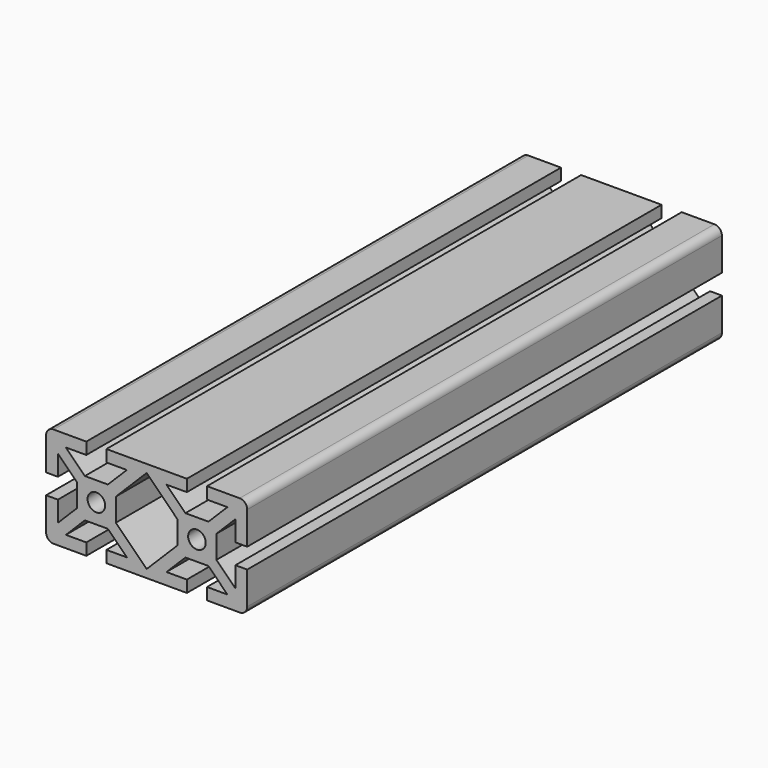
from build123d import *

# Parameters (mm, degrees)
F0_R     = 3.5
F1_DEPTH = 236


with BuildPart() as f1:
    # F0 (on Front) → F1 (new body)
    with BuildSketch(Plane.XZ):
        with BuildLine():
            Line((-129.601, 70.2), (-129.601, 78.321989))
            Line((-129.601, 78.321989), (-122.0572, 70.778189))
            Line((-122.0572, 70.778189), (-122.0572, 61.621811))
            Line((-122.0572, 61.621811), (-129.601, 54.078011))
            Line((-129.601, 54.078011), (-129.601, 62.2))
            Line((-129.601, 62.2), (-134.3, 62.2))
            Line((-134.3, 62.2), (-134.3, 49.2))
            ThreePointArc((-134.3, 49.2), (-133.42132, 47.07868), (-131.3, 46.2))
            Line((-131.3, 46.2), (-118.3, 46.2))
            Line((-118.3, 46.2), (-118.3, 50.899))
            Line((-118.3, 50.899), (-126.421989, 50.899))
            Line((-126.421989, 50.899), (-118.878189, 58.4428))
            Line((-118.878189, 58.4428), (-109.721811, 58.4428))
            Line((-109.721811, 58.4428), (-102.178011, 50.899))
            Line((-102.178011, 50.899), (-110.3, 50.899))
            Line((-110.3, 50.899), (-110.3, 46.2))
            Line((-110.3, 46.2), (-78.3, 46.2))
            Line((-78.3, 46.2), (-78.3, 50.899))
            Line((-78.3, 50.899), (-86.421989, 50.899))
            Line((-86.421989, 50.899), (-78.878189, 58.4428))
            Line((-78.878189, 58.4428), (-69.721811, 58.4428))
            Line((-69.721811, 58.4428), (-62.178011, 50.899))
            Line((-62.178011, 50.899), (-70.3, 50.899))
            Line((-70.3, 50.899), (-70.3, 46.2))
            Line((-70.3, 46.2), (-57.3, 46.2))
            ThreePointArc((-57.3, 46.2), (-55.17868, 47.07868), (-54.3, 49.2))
            Line((-54.3, 49.2), (-54.3, 62.2))
            Line((-54.3, 62.2), (-58.999, 62.2))
            Line((-58.999, 62.2), (-58.999, 54.078011))
            Line((-58.999, 54.078011), (-66.5428, 61.621811))
            Line((-66.5428, 61.621811), (-66.5428, 70.778189))
            Line((-66.5428, 70.778189), (-58.999, 78.321989))
            Line((-58.999, 78.321989), (-58.999, 70.2))
            Line((-58.999, 70.2), (-54.3, 70.2))
            Line((-54.3, 70.2), (-54.3, 83.2))
            ThreePointArc((-54.3, 83.2), (-55.17868, 85.32132), (-57.3, 86.2))
            Line((-57.3, 86.2), (-70.3, 86.2))
            Line((-70.3, 86.2), (-70.3, 81.501))
            Line((-70.3, 81.501), (-62.178011, 81.501))
            Line((-62.178011, 81.501), (-69.721811, 73.9572))
            Line((-69.721811, 73.9572), (-78.878189, 73.9572))
            Line((-78.878189, 73.9572), (-86.421989, 81.501))
            Line((-86.421989, 81.501), (-78.3, 81.501))
            Line((-78.3, 81.501), (-78.3, 86.2))
            Line((-78.3, 86.2), (-110.3, 86.2))
            Line((-110.3, 86.2), (-110.3, 81.501))
            Line((-110.3, 81.501), (-102.178011, 81.501))
            Line((-102.178011, 81.501), (-109.721811, 73.9572))
            Line((-109.721811, 73.9572), (-118.878189, 73.9572))
            Line((-118.878189, 73.9572), (-126.421989, 81.501))
            Line((-126.421989, 81.501), (-118.3, 81.501))
            Line((-118.3, 81.501), (-118.3, 86.2))
            Line((-118.3, 86.2), (-131.3, 86.2))
            ThreePointArc((-131.3, 86.2), (-133.42132, 85.32132), (-134.3, 83.2))
            Line((-134.3, 83.2), (-134.3, 70.2))
            Line((-134.3, 70.2), (-129.601, 70.2))
        make_face()
        with Locations((-114.3, 66.2)):
            Circle(F0_R, mode=Mode.SUBTRACT)
        Polygon((-94.3, 49.379011), (-106.5428, 61.621811), (-106.5428, 70.778189), (-94.3, 83.020989), (-82.0572, 70.778189), (-82.0572, 61.621811), align=None, mode=Mode.SUBTRACT)
        with Locations((-74.3, 66.2)):
            Circle(F0_R, mode=Mode.SUBTRACT)
    extrude(amount=F1_DEPTH)


with BuildPart() as f2_1:
    # F2: copy of F1
    add(f1.part)


solid = Compound([f1.part, f2_1.part])
